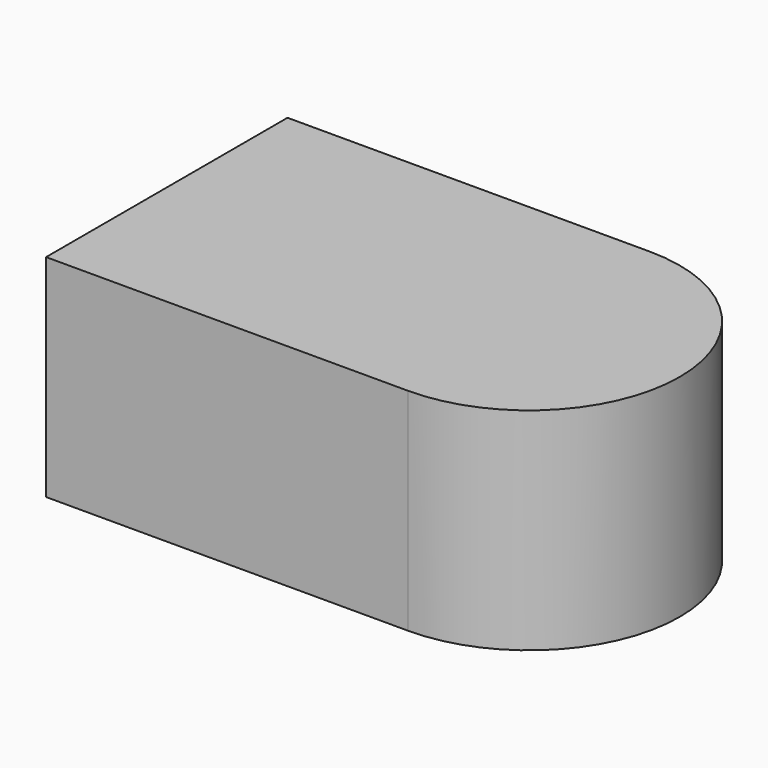
from build123d import *

# Parameters (mm, degrees)
F0_W     = 120
F0_H     = 100
F1_DEPTH = 70


with BuildPart() as f1:
    # F0 (on Top) → F1 (new body)
    with BuildSketch(Plane.XY):
        with Locations((-60, 0)):
            Rectangle(F0_W, F0_H)
        with BuildLine():
            Line((0, 50), (0, -50))
            ThreePointArc((0, -50), (50, 0), (0, 50))
        make_face()
    extrude(amount=F1_DEPTH)


solid = f1.part
